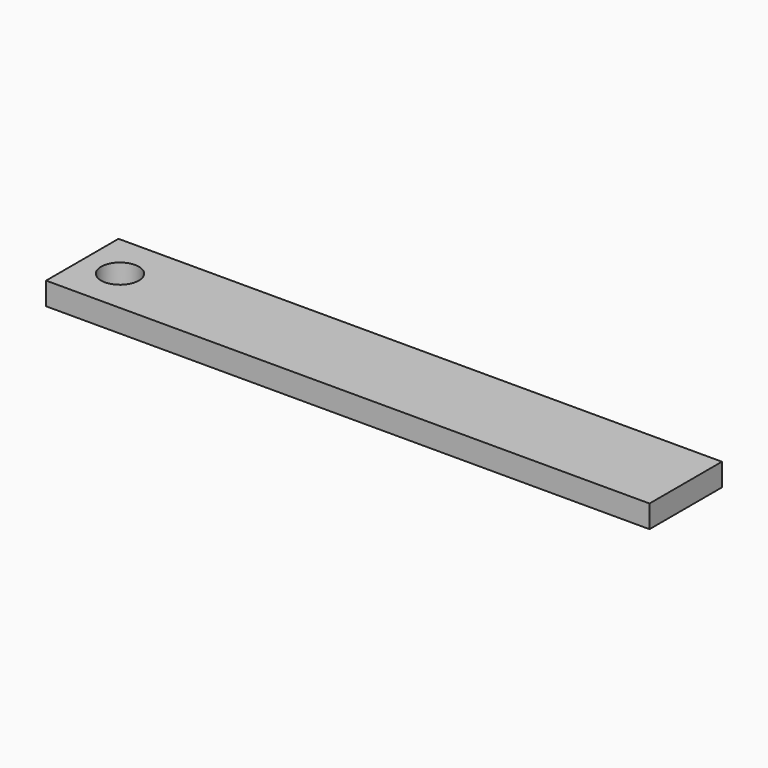
from build123d import *

# Parameters (mm, degrees)
SKETCH_W         = 80
SKETCH_H         = 12
SKETCH_R         = 2.5
EXTRUDE_DEPTH    = 3
EXTRUDE001_DEPTH = 3


with BuildPart() as extrude_body:
    # Sketch → Extrude (new body)
    with BuildSketch(Plane.XY):
        Rectangle(SKETCH_W, SKETCH_H)
        with Locations((-35, 0)):
            Circle(SKETCH_R, mode=Mode.SUBTRACT)
    extrude(amount=EXTRUDE_DEPTH)


with BuildPart() as extrude001:
    # Sketch → Extrude001 (new body)
    with BuildSketch(Plane.XY):
        Rectangle(SKETCH_W, SKETCH_H)
        with Locations((-35, 0)):
            Circle(SKETCH_R, mode=Mode.SUBTRACT)
    extrude(amount=EXTRUDE001_DEPTH)


solid = Compound([extrude_body.part, extrude001.part])
